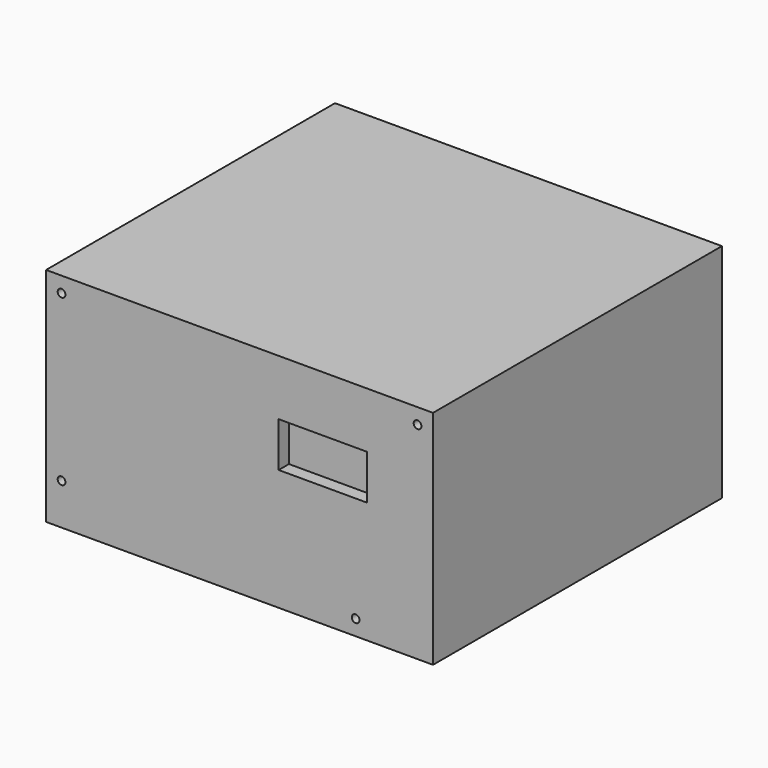
from build123d import *

# Parameters (mm, degrees)
F0_W     = 150
F0_H     = 140
F1_DEPTH = 43
F2_R     = 1.5
F3_DEPTH = 25
F4_W     = 34.246223
F4_H     = 17.356102
F5_DEPTH = 5


with BuildPart() as f1:
    # F0 (on Top) → F1 (new body, symmetric)
    with BuildSketch(Plane.XY):
        Rectangle(F0_W, F0_H)
    extrude(amount=F1_DEPTH, both=True)

    # F2 (on face) → F3 (cut)
    with BuildSketch(Plane.XZ.offset(70)):
        with Locations((-69, 37)):
            Circle(F2_R)
        with Locations((69, 37)):
            Circle(F2_R)
        with Locations((45, -37)):
            Circle(F2_R)
        with Locations((-69, -27)):
            Circle(F2_R)
    extrude(amount=-F3_DEPTH, mode=Mode.SUBTRACT)

    # F4 (on face) → F5 (cut)
    with BuildSketch(Plane.XZ.offset(70)):
        with Locations((32.274584, 12.710388)):
            Rectangle(F4_W, F4_H)
    extrude(amount=-F5_DEPTH, mode=Mode.SUBTRACT)


solid = f1.part
